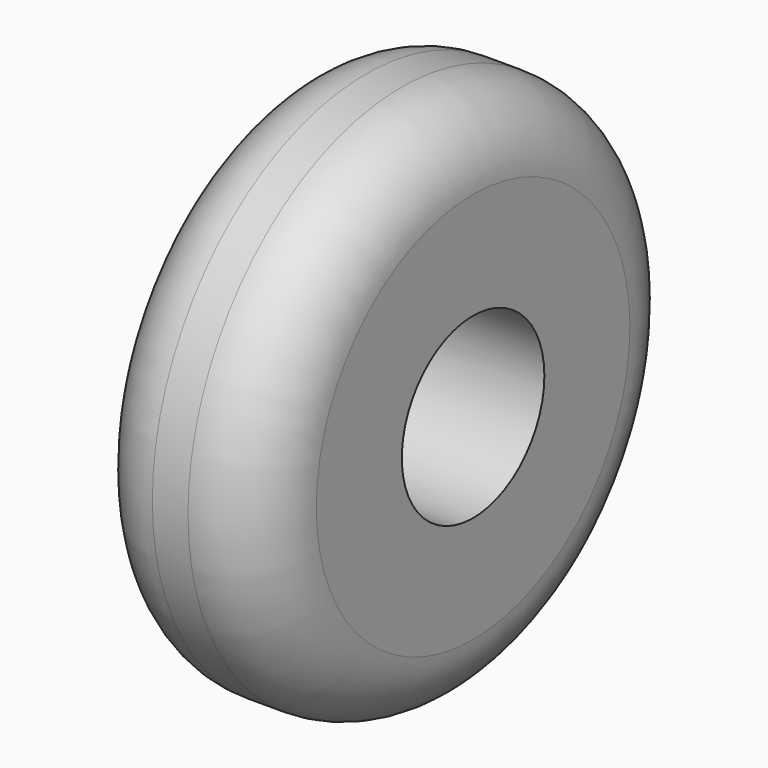
from build123d import *

# Parameters (mm, degrees)
F0_R     = 19.05
F0_R_2   = 6.35
F1_DEPTH = 6.35
F2_R     = 5.08
F3_R     = 5.08


with BuildPart() as f1:
    # F0 (on Right) → F1 (new body, symmetric)
    with BuildSketch(Plane.YZ):
        Circle(F0_R)
        Circle(F0_R_2, mode=Mode.SUBTRACT)
    extrude(amount=F1_DEPTH, both=True)

    # F2
    f2_edges = [f1.edges().sort_by_distance(p)[0] for p in [
        (6.35, -19.05, 0),
    ]]
    fillet(f2_edges, radius=F2_R)

    # F3
    f3_edges = [f1.edges().sort_by_distance(p)[0] for p in [
        (-2.54, 19.05, 0),
        (1.27, -19.05, 0),
        (-6.35, -19.05, 0),
    ]]
    fillet(f3_edges, radius=F3_R)


solid = f1.part
